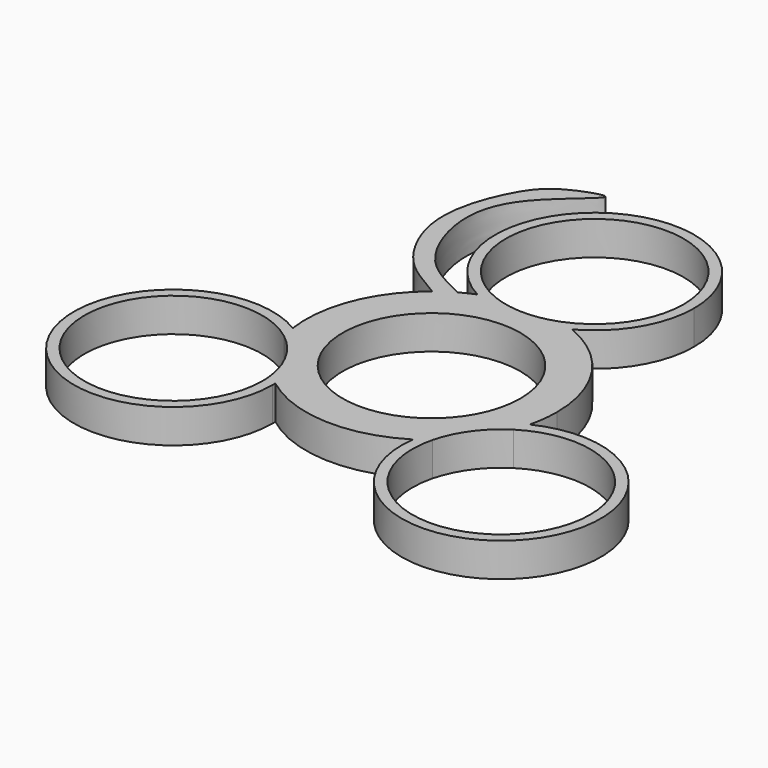
from build123d import *

# Parameters (mm, degrees)
F0_R     = 21
F1_DEPTH = 8


with BuildPart() as f1:
    # F0 (on Top) → F1 (new body)
    with BuildSketch(Plane.XY):
        with BuildLine():
            ThreePointArc((1.963e-07, 24.6619732365), (17.4386485824, 17.4386484436), (24.6619732365, 0))
            ThreePointArc((24.6619732365, 0), (23.4643944661, -7.5917795185), (19.9879663592, -14.4462495043))
            ThreePointArc((19.9879663592, -14.4462495043), (23.9398888869, -10.2004903895), (28.8114525397, -7.0521527803))
            ThreePointArc((28.8114525397, -7.0521527803), (29.448575436, -3.5516279469), (29.6619732365, 0))
            ThreePointArc((29.6619732365, 0), (24.6059770877, 16.5643758663), (11.1616161866, 27.4818300043))
            ThreePointArc((11.1616161866, 27.4818300043), (5.7561548031, 25.3778409975), (1.963e-07, 24.6619732365))
        make_face()
        with BuildLine():
            ThreePointArc((-21.2831372088, -12.4595744095), (-21.3949831779, 12.2665243135), (1.963e-07, 24.6619732365))
            ThreePointArc((1.963e-07, 24.6619732365), (-5.7561546128, 25.3778409494), (-11.1616161866, 27.4818300043))
            ThreePointArc((-11.1616161866, 27.4818300043), (-12.8875871928, 26.7159643777), (-14.56133119, 25.8418321769))
            ThreePointArc((-14.56133119, 25.8418321769), (-16.549768987, 24.6158039226), (-18.4355593229, 23.2370998348))
            ThreePointArc((-18.4355593229, 23.2370998348), (-27.5674737035, 10.9483811539), (-29.3548789483, -4.2571983997))
            ThreePointArc((-29.3548789483, -4.2571983997), (-24.8083769074, -7.8558877466), (-21.2831372088, -12.4595744095))
        make_face()
        with BuildLine():
            ThreePointArc((-11.1616161866, 27.4818300043), (-5.7561546128, 25.3778409494), (1.963e-07, 24.6619732365))
            ThreePointArc((1.963e-07, 24.6619732365), (5.7561548031, 25.3778409975), (11.1616161866, 27.4818300043))
            ThreePointArc((11.1616161866, 27.4818300043), (9.4639022123, 28.1116917171), (7.7309181869, 28.6367868356))
            ThreePointArc((7.7309181869, 28.6367868356), (0, 27.1619732365), (-7.7309181869, 28.6367868356))
            ThreePointArc((-7.7309181869, 28.6367868356), (-9.4639022123, 28.1116917171), (-11.1616161866, 27.4818300043))
        make_face()
        with BuildLine():
            ThreePointArc((15.735560022, -25.1440809551), (17.1964915926, -19.5307186292), (19.9879663592, -14.4462495043))
            ThreePointArc((19.9879663592, -14.4462495043), (-1.1857851261, -24.6334495666), (-21.2831372088, -12.4595744095))
            ThreePointArc((-21.2831372088, -12.4595744095), (-18.994419715, -17.7871458588), (-18.0819791402, -23.5132874489))
            ThreePointArc((-18.0819791402, -23.5132874489), (-1.4287380916, -29.6275440047), (15.735560022, -25.1440809551))
        make_face()
        with BuildLine():
            ThreePointArc((28.8114525397, -7.0521527803), (23.9398888869, -10.2004903895), (19.9879663592, -14.4462495043))
            ThreePointArc((19.9879663592, -14.4462495043), (17.1964915926, -19.5307186292), (15.735560022, -25.1440809551))
            ThreePointArc((15.735560022, -25.1440809551), (17.2388913166, -24.1382120807), (18.6781174536, -23.0425819879))
            ThreePointArc((18.6781174536, -23.0425819879), (22.0122787346, -15.9093153599), (27.7392822067, -10.5054690015))
            ThreePointArc((27.7392822067, -10.5054690015), (28.328038201, -8.7951638964), (28.8114525397, -7.0521527803))
        make_face()
        with BuildLine():
            ThreePointArc((-18.0819791402, -23.5132874489), (-18.994419715, -17.7871458588), (-21.2831372088, -12.4595744095))
            ThreePointArc((-21.2831372088, -12.4595744095), (-24.8083769074, -7.8558877466), (-29.3548789483, -4.2571983997))
            ThreePointArc((-29.3548789483, -4.2571983997), (-29.046480733, -6.0112073087), (-28.6333745771, -7.743546772))
            ThreePointArc((-28.6333745771, -7.743546772), (-23.4103781285, -13.7049037547), (-20.7688628552, -21.1775114681))
            ThreePointArc((-20.7688628552, -21.1775114681), (-19.4604969951, -22.3857479881), (-18.0819791402, -23.5132874489))
        make_face()
        with BuildLine():
            ThreePointArc((23.5, 48.1619732365), (-12.0405983991, 68.3430036907), (-11.1616161866, 27.4818300043))
            ThreePointArc((-11.1616161866, 27.4818300043), (-9.4639022123, 28.1116917171), (-7.7309181869, 28.6367868356))
            ThreePointArc((-7.7309181869, 28.6367868356), (-11.8036163542, 65.5307567564), (21, 48.1619732365))
            ThreePointArc((21, 48.1619732365), (17.3687835199, 36.3583568823), (7.7309181869, 28.6367868356))
            ThreePointArc((7.7309181869, 28.6367868356), (9.4639022123, 28.1116917171), (11.1616161866, 27.4818300043))
            ThreePointArc((11.1616161866, 27.4818300043), (20.1810304542, 36.1213748374), (23.5, 48.1619732365))
        make_face()
        with BuildLine():
            ThreePointArc((62.5299789509, -28.2104897255), (51.5217901475, -8.3068829818), (28.8114525397, -7.0521527803))
            ThreePointArc((28.8114525397, -7.0521527803), (28.328038201, -8.7951638964), (27.7392822067, -10.5054690015))
            ThreePointArc((27.7392822067, -10.5054690015), (49.1280074542, -9.796454798), (60.0322995697, -28.2104897255))
            ThreePointArc((60.0322995697, -28.2104897255), (36.428247385, -49.0484097805), (18.6781174536, -23.0425819879))
            ThreePointArc((18.6781174536, -23.0425819879), (17.2388913166, -24.1382120807), (15.735560022, -25.1440809551))
            ThreePointArc((15.735560022, -25.1440809551), (37.4958068457, -51.6578803353), (62.5299789509, -28.2104897255))
        make_face()
        with BuildLine():
            ThreePointArc((-18.0682999072, -24.314397946), (-18.0717199647, -23.9137843073), (-18.0819791402, -23.5132874489))
            ThreePointArc((-18.0819791402, -23.5132874489), (-19.4604969951, -22.3857479881), (-20.7688628552, -21.1775114681))
            ThreePointArc((-20.7688628552, -21.1775114681), (-20.5922391179, -22.7415368375), (-20.533254087, -24.314397946))
            ThreePointArc((-20.533254087, -24.314397946), (-60.3998577785, -33.5367222271), (-28.6333745771, -7.743546772))
            ThreePointArc((-28.6333745771, -7.743546772), (-29.046480733, -6.0112073087), (-29.3548789483, -4.2571983997))
            ThreePointArc((-29.3548789483, -4.2571983997), (-61.9828150758, -35.8217664559), (-18.0682999072, -24.314397946))
        make_face()
        with BuildLine():
            ThreePointArc((-18.4355593229, 23.2370998348), (-16.549768987, 24.6158039226), (-14.56133119, 25.8418321769))
            add(Edge.make_bspline(
                [(-14.56133119, 25.8418321769), (-18.3212557111, 27.7701999079), (-26.4972669145, 31.2810079014), (-33.3641013174, 47.4316106702), (-30.5487631556, 62.276261401), (-11.8067038363, 75.258047024), (-26.0960526984, 70.5059905038), (-31.7537439836, 64.2936062647), (-38.6249221143, 46.1548793635), (-28.9286036079, 28.3327917305), (-21.4465718832, 25.273722625), (-18.4355593229, 23.2370998348)],
                knots=[0, 0, 0, 0, 0.1074499467, 0.2279180613, 0.348359061, 0.4635794883, 0.5470081109, 0.6402171576, 0.7682464571, 0.8985368087, 1, 1, 1, 1], degree=3))
        make_face()
        with BuildLine():
            ThreePointArc((19.9879663592, -14.4462495043), (23.4643944661, -7.5917795185), (24.6619732365, 0))
            ThreePointArc((24.6619732365, 0), (17.4386485824, 17.4386484436), (1.963e-07, 24.6619732365))
            ThreePointArc((1.963e-07, 24.6619732365), (-21.3949831779, 12.2665243135), (-21.2831372088, -12.4595744095))
            ThreePointArc((-21.2831372088, -12.4595744095), (-1.1857851261, -24.6334495666), (19.9879663592, -14.4462495043))
        make_face()
        Circle(F0_R, mode=Mode.SUBTRACT)
    extrude(amount=F1_DEPTH)


solid = f1.part
